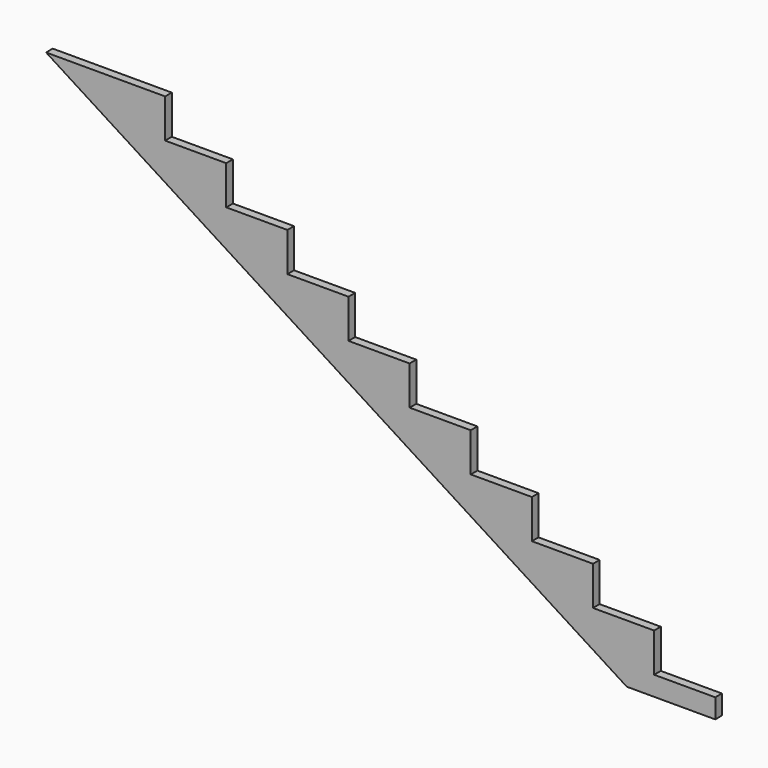
from build123d import *

# Parameters (mm, degrees)
F1_DEPTH = 38.1
F3_DEPTH = 38.1
F5_DEPTH = 38.101


with BuildPart() as f1:
    # F0 (on Front) → F1 (new body)
    with BuildSketch(Plane.XZ):
        Polygon((279.4, 0), (0, 0), (0, -168.428913), (2529.325994, -1778), (2794, -1778), (2794, -1600.2), (2514.6, -1600.2), (2514.6, -1422.4), (2235.2, -1422.4), (2235.2, -1244.6), (1955.8, -1244.6), (1955.8, -1066.8), (1676.4, -1066.8), (1676.4, -889), (1397, -889), (1397, -711.2), (1117.6, -711.2), (1117.6, -533.4), (838.2, -533.4), (838.2, -355.6), (558.8, -355.6), (558.8, -177.8), (279.4, -177.8), align=None)
    extrude(amount=F1_DEPTH)

    # F2 (on face) → F3 (join)
    with BuildSketch(Plane.XZ.offset(38.1)):
        Polygon((0, -168.428913), (0, 0), (-264.674006, 0), align=None)
    extrude(amount=-F3_DEPTH)

    # F4 (on face) → F5 (cut, through all)
    with BuildSketch(Plane.XZ.offset(38.1)):
        Polygon((2794, -1778), (2794, -1689.1), (2389.625994, -1689.1), (2529.325994, -1778), align=None)
    extrude(amount=-F5_DEPTH, mode=Mode.SUBTRACT)


solid = f1.part
